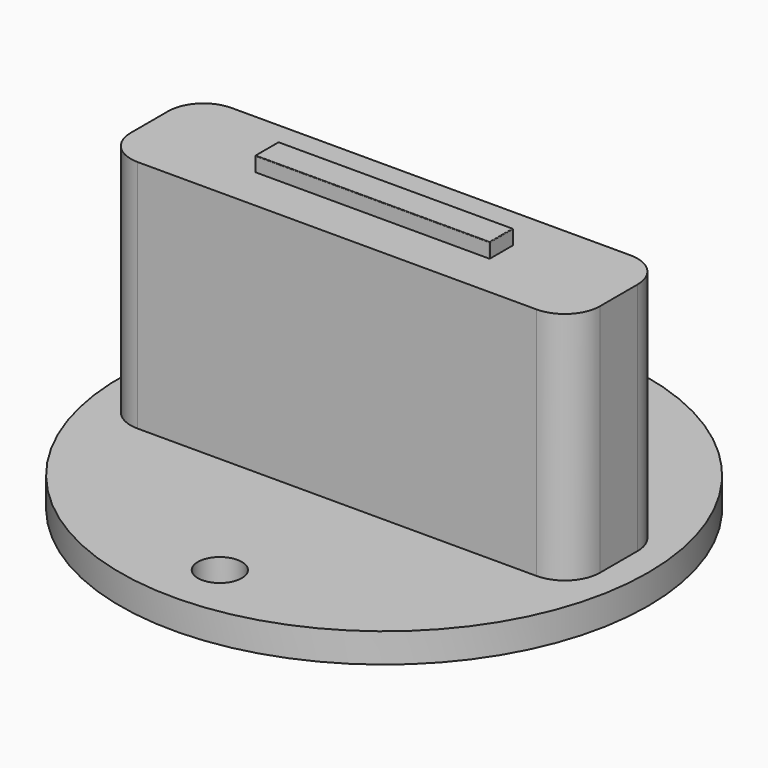
from build123d import *

# Parameters (mm, degrees)
F0_W     = 101.6
F0_H     = 25.4
F1_DEPTH = 50.8
F2_W     = 50.8
F2_H     = 6.35
F3_DEPTH = 3.175
F4_R     = 57.15
F5_DEPTH = 6.35
F6_R     = 4.7625
F7_DEPTH = 25.4
F8_R     = 7.62
F9_R     = 0.127


with BuildPart() as f1:
    # F0 (on Top) → F1 (new body)
    with BuildSketch(Plane.XY):
        Rectangle(F0_W, F0_H)
    extrude(amount=F1_DEPTH)

    # F2 (on face) → F3 (join)
    with BuildSketch(Plane.XY.offset(50.8)):
        Rectangle(F2_W, F2_H)
    extrude(amount=F3_DEPTH)

    # F4 (on face) → F5 (join)
    with BuildSketch(Plane(origin=(0, 0, 0), x_dir=(1, 0, 0), z_dir=(0, 0, -1))):
        Circle(F4_R)
    extrude(amount=F5_DEPTH)

    # F6 (on face) → F7 (cut)
    with BuildSketch(Plane(origin=(0, 0, -6.35), x_dir=(1, 0, 0), z_dir=(0, 0, -1))):
        with Locations((0, 44.45)):
            Circle(F6_R)
        with Locations((0, -44.45)):
            Circle(F6_R)
    extrude(amount=-F7_DEPTH, mode=Mode.SUBTRACT)

    # F8
    f8_edges = [f1.edges().sort_by_distance(p)[0] for p in [
        (50.8, -12.7, 25.4),
        (50.8, 12.7, 25.4),
        (-50.8, -12.7, 25.4),
        (-50.8, 12.7, 25.4),
    ]]
    fillet(f8_edges, radius=F8_R)

    # F9
    f9_edges = [f1.edges().sort_by_distance(p)[0] for p in [
        (0, 3.175, 53.975),
        (-25.4, 0, 53.975),
        (0, -3.175, 53.975),
        (25.4, 0, 53.975),
        (25.4, -3.175, 52.3875),
        (25.4, 3.175, 52.3875),
        (-25.4, -3.175, 52.3875),
        (-25.4, 3.175, 52.3875),
    ]]
    fillet(f9_edges, radius=F9_R)


solid = f1.part
